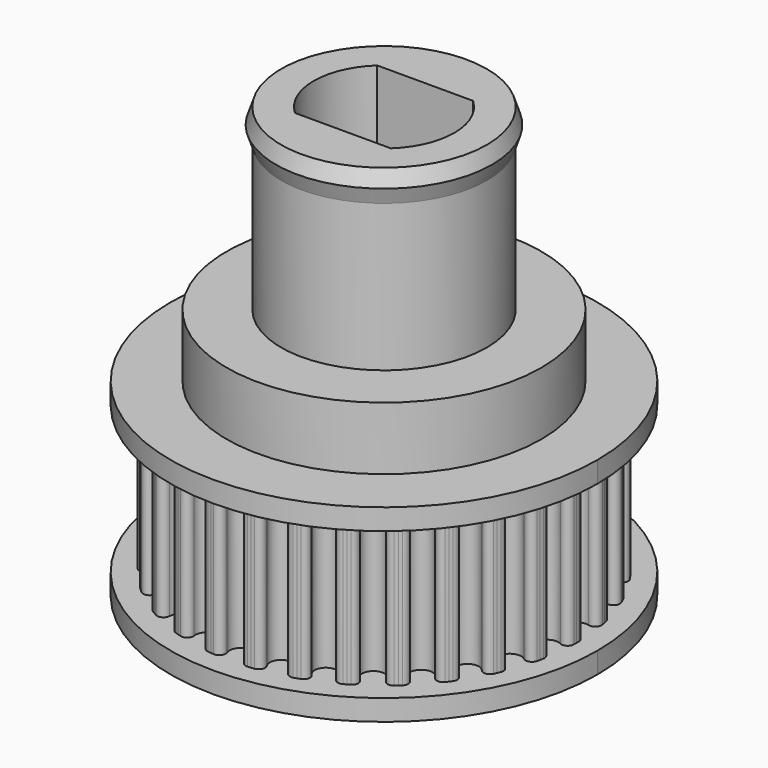
from build123d import *

# Parameters (mm, degrees)
F3_R     = 7.5
F3_R_2   = 4.9
F4_DEPTH = 8
F5_DEPTH = 1
F7_DEPTH = 12
F8_DEPTH = 20.5


with BuildPart() as f4:
    # F3 (on Top) → F4 (new body)
    with BuildSketch(Plane.XY):
        with BuildLine():
            ThreePointArc((0.4984215704, 8.7257426748), (0.4409178958, 8.2306612387), (0, 7.9982742552))
            ThreePointArc((0, 7.9982742552), (-0.4409178958, 8.2306612387), (-0.4984215704, 8.7257426748))
            ThreePointArc((-0.4984215704, 8.7257426748), (-0.5383834455, 9.0143337699), (-0.8045070227, 9.132908697))
            ThreePointArc((-0.8045070227, 9.132908697), (-0.8814576325, 9.1258032666), (-0.9583456187, 9.1180494895))
            ThreePointArc((-0.9583456187, 9.1180494895), (-1.0351655189, 9.1096479167), (-1.1119118753, 9.1005991451))
            ThreePointArc((-1.1119118753, 9.1005991451), (-1.3475669002, 8.9292851617), (-1.3266540499, 8.6386919334))
            ThreePointArc((-1.3266540499, 8.6386919334), (-1.662934724, 7.8234927727), (-2.3017137764, 8.4314365905))
            ThreePointArc((-2.3017137764, 8.4314365905), (-2.4008038512, 8.7054127368), (-2.6857651033, 8.7660663144))
            ThreePointArc((-2.6857651033, 8.7660663144), (-2.7595568556, 8.7431172232), (-2.8331525539, 8.7195469735))
            ThreePointArc((-2.8331525539, 8.7195469735), (-2.9065469698, 8.6953572399), (-2.9797348888, 8.670549741))
            ThreePointArc((-2.9797348888, 8.670549741), (-3.174622106, 8.4539839445), (-3.0937485222, 8.1740889015))
            ThreePointArc((-3.0937485222, 8.1740889015), (-3.2531912209, 7.3067871148), (-4.0044100455, 7.7686362687))
            ThreePointArc((-4.0044100455, 7.7686362687), (-4.1582976082, 8.0160233939), (-4.4496423611, 8.0161047695))
            ThreePointArc((-4.4496423611, 8.0161047695), (-4.5170502022, 7.9783150031), (-4.5841371276, 7.9399584138))
            ThreePointArc((-4.5841371276, 7.9399584138), (-4.6508983709, 7.9010377268), (-4.7173291892, 7.8615557073))
            ThreePointArc((-4.7173291892, 7.8615557073), (-4.8629310923, 7.6092030622), (-4.7256313387, 7.352238961))
            ThreePointArc((-4.7256313387, 7.352238961), (-4.701267651, 6.4707397981), (-5.5320943804, 6.7663092639))
            ThreePointArc((-5.5320943804, 6.7663092639), (-5.7340538061, 6.9762953635), (-6.0190488961, 6.9158009807))
            ThreePointArc((-6.0190488961, 6.9158009807), (-6.0771267799, 6.8648221331), (-6.1347729116, 6.8133555713))
            ThreePointArc((-6.1347729116, 6.8133555713), (-6.1919831958, 6.7614049517), (-6.2487535679, 6.7089739652))
            ThreePointArc((-6.2487535679, 6.7089739652), (-6.3387066549, 6.431863493), (-6.1509813896, 6.2090608979))
            ThreePointArc((-6.1509813896, 6.2090608979), (-5.9438761255, 5.3518901022), (-6.8179996448, 5.4682620759))
            ThreePointArc((-6.8179996448, 5.4682620759), (-7.0592043376, 5.6316697497), (-7.3253941116, 5.5132435033))
            ThreePointArc((-7.3253941116, 5.5132435033), (-7.371603756, 5.4513035948), (-7.4172896815, 5.3889763962))
            ThreePointArc((-7.4172896815, 5.3889763962), (-7.4624486426, 5.3262663353), (-7.5070774307, 5.2631778677))
            ThreePointArc((-7.5070774307, 5.2631778677), (-7.5374503202, 4.9734206257), (-7.307504038, 4.7945170792))
            ThreePointArc((-7.307504038, 4.7945170792), (-6.9267086914, 3.9991371276), (-7.8059256084, 3.9312255956))
            ThreePointArc((-7.8059256084, 3.9312255956), (-8.0758337657, 4.0409131442), (-8.3115844534, 3.8697308294))
            ThreePointArc((-8.3115844534, 3.8697308294), (-8.343906275, 3.7995369312), (-8.3756353002, 3.7290730933))
            ThreePointArc((-8.3756353002, 3.7290730933), (-8.4067692748, 3.6583443219), (-8.4373059869, 3.5873556418))
            ThreePointArc((-8.4373059869, 3.5873556418), (-8.4067712378, 3.297615412), (-8.1446536947, 3.1704298575))
            ThreePointArc((-8.1446536947, 3.1704298575), (-7.6068108495, 2.4716026705), (-8.452695166, 2.2223756926))
            ThreePointArc((-8.452695166, 2.2223756926), (-8.7395105061, 2.2735492438), (-8.9345186711, 2.0570923492))
            ThreePointArc((-8.9345186711, 2.0570923492), (-8.9515400513, 1.9817122715), (-8.9679254656, 1.9061914023))
            ThreePointArc((-8.9679254656, 1.9061914023), (-8.9836737497, 1.8305351068), (-8.9987837848, 1.7547487603))
            ThreePointArc((-8.9987837848, 1.7547487603), (-8.9086759121, 1.477688581), (-8.6258429026, 1.4077796376))
            ThreePointArc((-8.6258429026, 1.4077796376), (-7.9544588719, 0.8360473167), (-8.7300413842, 0.4163973077))
            ThreePointArc((-8.7300413842, 0.4163973077), (-9.0212287006, 0.4068203317), (-9.1669715504, 0.1545490623))
            ThreePointArc((-9.1669715504, 0.1545490623), (-9.1679485732, 0.0772772762), (-9.1682742552, 0))
            ThreePointArc((-9.1682742552, 0), (-9.1679485732, -0.0772772762), (-9.1669715504, -0.1545490623))
            ThreePointArc((-9.1669715504, -0.1545490623), (-9.0212287006, -0.4068203317), (-8.7300413842, -0.4163973077))
            ThreePointArc((-8.7300413842, -0.4163973077), (-7.9544588719, -0.8360473167), (-8.6258429026, -1.4077796376))
            ThreePointArc((-8.6258429026, -1.4077796376), (-8.9086759121, -1.477688581), (-8.9987837848, -1.7547487603))
            ThreePointArc((-8.9987837848, -1.7547487603), (-8.9836737497, -1.8305351068), (-8.9679254656, -1.9061914023))
            ThreePointArc((-8.9679254656, -1.9061914023), (-8.9515400513, -1.9817122715), (-8.9345186711, -2.0570923492))
            ThreePointArc((-8.9345186711, -2.0570923492), (-8.7395105061, -2.2735492438), (-8.452695166, -2.2223756926))
            ThreePointArc((-8.452695166, -2.2223756926), (-7.6068108495, -2.4716026705), (-8.1446536947, -3.1704298575))
            ThreePointArc((-8.1446536947, -3.1704298575), (-8.4067712378, -3.297615412), (-8.4373059869, -3.5873556418))
            ThreePointArc((-8.4373059869, -3.5873556418), (-8.4067692748, -3.6583443219), (-8.3756353002, -3.7290730933))
            ThreePointArc((-8.3756353002, -3.7290730933), (-8.343906275, -3.7995369312), (-8.3115844534, -3.8697308294))
            ThreePointArc((-8.3115844534, -3.8697308294), (-8.0758337657, -4.0409131442), (-7.8059256084, -3.9312255956))
            ThreePointArc((-7.8059256084, -3.9312255956), (-6.9267086914, -3.9991371276), (-7.307504038, -4.7945170792))
            ThreePointArc((-7.307504038, -4.7945170792), (-7.5374503202, -4.9734206257), (-7.5070774307, -5.2631778677))
            ThreePointArc((-7.5070774307, -5.2631778677), (-7.4624486426, -5.3262663353), (-7.4172896815, -5.3889763962))
            ThreePointArc((-7.4172896815, -5.3889763962), (-7.371603756, -5.4513035948), (-7.3253941116, -5.5132435033))
            ThreePointArc((-7.3253941116, -5.5132435033), (-7.0592043376, -5.6316697497), (-6.8179996448, -5.4682620759))
            ThreePointArc((-6.8179996448, -5.4682620759), (-5.9438761255, -5.3518901022), (-6.1509813896, -6.2090608979))
            ThreePointArc((-6.1509813896, -6.2090608979), (-6.3387066549, -6.431863493), (-6.2487535679, -6.7089739652))
            ThreePointArc((-6.2487535679, -6.7089739652), (-6.1919831958, -6.7614049517), (-6.1347729116, -6.8133555713))
            ThreePointArc((-6.1347729116, -6.8133555713), (-6.0771267799, -6.8648221331), (-6.0190488961, -6.9158009807))
            ThreePointArc((-6.0190488961, -6.9158009807), (-5.7340538061, -6.9762953635), (-5.5320943804, -6.7663092639))
            ThreePointArc((-5.5320943804, -6.7663092639), (-4.701267651, -6.4707397981), (-4.7256313387, -7.352238961))
            ThreePointArc((-4.7256313387, -7.352238961), (-4.8629310923, -7.6092030622), (-4.7173291892, -7.8615557073))
            ThreePointArc((-4.7173291892, -7.8615557073), (-4.6508983709, -7.9010377268), (-4.5841371276, -7.9399584138))
            ThreePointArc((-4.5841371276, -7.9399584138), (-4.5170502022, -7.9783150031), (-4.4496423611, -8.0161047695))
            ThreePointArc((-4.4496423611, -8.0161047695), (-4.1582976082, -8.0160233939), (-4.0044100455, -7.7686362687))
            ThreePointArc((-4.0044100455, -7.7686362687), (-3.2531912209, -7.3067871148), (-3.0937485222, -8.1740889015))
            ThreePointArc((-3.0937485222, -8.1740889015), (-3.174622106, -8.4539839445), (-2.9797348888, -8.670549741))
            ThreePointArc((-2.9797348888, -8.670549741), (-2.9065469698, -8.6953572399), (-2.8331525539, -8.7195469735))
            ThreePointArc((-2.8331525539, -8.7195469735), (-2.7595568556, -8.7431172232), (-2.6857651033, -8.7660663144))
            ThreePointArc((-2.6857651033, -8.7660663144), (-2.4008038512, -8.7054127368), (-2.3017137764, -8.4314365905))
            ThreePointArc((-2.3017137764, -8.4314365905), (-1.662934724, -7.8234927727), (-1.3266540499, -8.6386919334))
            ThreePointArc((-1.3266540499, -8.6386919334), (-1.3475669002, -8.9292851617), (-1.1119118753, -9.1005991451))
            ThreePointArc((-1.1119118753, -9.1005991451), (-1.0351655189, -9.1096479167), (-0.9583456187, -9.1180494895))
            ThreePointArc((-0.9583456187, -9.1180494895), (-0.8814576325, -9.1258032666), (-0.8045070227, -9.132908697))
            ThreePointArc((-0.8045070227, -9.132908697), (-0.5383834455, -9.0143337699), (-0.4984215704, -8.7257426748))
            ThreePointArc((-0.4984215704, -8.7257426748), (0, -7.9982742552), (0.4984215704, -8.7257426748))
            ThreePointArc((0.4984215704, -8.7257426748), (0.5383834455, -9.0143337699), (0.8045070227, -9.132908697))
            ThreePointArc((0.8045070227, -9.132908697), (0.8814576325, -9.1258032666), (0.9583456187, -9.1180494895))
            ThreePointArc((0.9583456187, -9.1180494895), (1.0351655189, -9.1096479167), (1.1119118753, -9.1005991451))
            ThreePointArc((1.1119118753, -9.1005991451), (1.3475669002, -8.9292851617), (1.3266540499, -8.6386919334))
            ThreePointArc((1.3266540499, -8.6386919334), (1.662934724, -7.8234927727), (2.3017137764, -8.4314365905))
            ThreePointArc((2.3017137764, -8.4314365905), (2.4008038512, -8.7054127368), (2.6857651033, -8.7660663144))
            ThreePointArc((2.6857651033, -8.7660663144), (2.7595568556, -8.7431172232), (2.8331525539, -8.7195469735))
            ThreePointArc((2.8331525539, -8.7195469735), (2.9065469698, -8.6953572399), (2.9797348888, -8.670549741))
            ThreePointArc((2.9797348888, -8.670549741), (3.174622106, -8.4539839445), (3.0937485222, -8.1740889015))
            ThreePointArc((3.0937485222, -8.1740889015), (3.2531912209, -7.3067871148), (4.0044100455, -7.7686362687))
            ThreePointArc((4.0044100455, -7.7686362687), (4.1582976082, -8.0160233939), (4.4496423611, -8.0161047695))
            ThreePointArc((4.4496423611, -8.0161047695), (4.5170502022, -7.9783150031), (4.5841371276, -7.9399584138))
            ThreePointArc((4.5841371276, -7.9399584138), (4.6508983709, -7.9010377268), (4.7173291892, -7.8615557073))
            ThreePointArc((4.7173291892, -7.8615557073), (4.8629310923, -7.6092030622), (4.7256313387, -7.352238961))
            ThreePointArc((4.7256313387, -7.352238961), (4.701267651, -6.4707397981), (5.5320943804, -6.7663092639))
            ThreePointArc((5.5320943804, -6.7663092639), (5.7340538061, -6.9762953635), (6.0190488961, -6.9158009807))
            ThreePointArc((6.0190488961, -6.9158009807), (6.0771267799, -6.8648221331), (6.1347729116, -6.8133555713))
            ThreePointArc((6.1347729116, -6.8133555713), (6.1919831958, -6.7614049517), (6.2487535679, -6.7089739652))
            ThreePointArc((6.2487535679, -6.7089739652), (6.3387066549, -6.431863493), (6.1509813896, -6.2090608979))
            ThreePointArc((6.1509813896, -6.2090608979), (5.9438761255, -5.3518901022), (6.8179996448, -5.4682620759))
            ThreePointArc((6.8179996448, -5.4682620759), (7.0592043376, -5.6316697497), (7.3253941116, -5.5132435033))
            ThreePointArc((7.3253941116, -5.5132435033), (7.371603756, -5.4513035948), (7.4172896815, -5.3889763962))
            ThreePointArc((7.4172896815, -5.3889763962), (7.4624486426, -5.3262663353), (7.5070774307, -5.2631778677))
            ThreePointArc((7.5070774307, -5.2631778677), (7.5374503202, -4.9734206257), (7.307504038, -4.7945170792))
            ThreePointArc((7.307504038, -4.7945170792), (6.9267086914, -3.9991371276), (7.8059256084, -3.9312255956))
            ThreePointArc((7.8059256084, -3.9312255956), (8.0758337657, -4.0409131442), (8.3115844534, -3.8697308294))
            ThreePointArc((8.3115844534, -3.8697308294), (8.343906275, -3.7995369312), (8.3756353002, -3.7290730933))
            ThreePointArc((8.3756353002, -3.7290730933), (8.4067692748, -3.6583443219), (8.4373059869, -3.5873556418))
            ThreePointArc((8.4373059869, -3.5873556418), (8.4067712378, -3.297615412), (8.1446536947, -3.1704298575))
            ThreePointArc((8.1446536947, -3.1704298575), (7.6068108495, -2.4716026705), (8.452695166, -2.2223756926))
            ThreePointArc((8.452695166, -2.2223756926), (8.7395105061, -2.2735492438), (8.9345186711, -2.0570923492))
            ThreePointArc((8.9345186711, -2.0570923492), (8.9515400513, -1.9817122715), (8.9679254656, -1.9061914023))
            ThreePointArc((8.9679254656, -1.9061914023), (8.9836737497, -1.8305351068), (8.9987837848, -1.7547487603))
            ThreePointArc((8.9987837848, -1.7547487603), (8.9086759121, -1.477688581), (8.6258429026, -1.4077796376))
            ThreePointArc((8.6258429026, -1.4077796376), (7.9544588719, -0.8360473167), (8.7300413842, -0.4163973077))
            ThreePointArc((8.7300413842, -0.4163973077), (9.0212287006, -0.4068203317), (9.1669715504, -0.1545490623))
            ThreePointArc((9.1669715504, -0.1545490623), (9.1679485732, -0.0772772762), (9.1682742552, 0))
            ThreePointArc((9.1682742552, 0), (9.1679485732, 0.0772772762), (9.1669715504, 0.1545490623))
            ThreePointArc((9.1669715504, 0.1545490623), (9.0212287006, 0.4068203317), (8.7300413842, 0.4163973077))
            ThreePointArc((8.7300413842, 0.4163973077), (7.9544588719, 0.8360473167), (8.6258429026, 1.4077796376))
            ThreePointArc((8.6258429026, 1.4077796376), (8.9086759121, 1.477688581), (8.9987837848, 1.7547487603))
            ThreePointArc((8.9987837848, 1.7547487603), (8.9836737497, 1.8305351068), (8.9679254656, 1.9061914023))
            ThreePointArc((8.9679254656, 1.9061914023), (8.9515400513, 1.9817122715), (8.9345186711, 2.0570923492))
            ThreePointArc((8.9345186711, 2.0570923492), (8.7395105061, 2.2735492438), (8.452695166, 2.2223756926))
            ThreePointArc((8.452695166, 2.2223756926), (7.6068108495, 2.4716026705), (8.1446536947, 3.1704298575))
            ThreePointArc((8.1446536947, 3.1704298575), (8.4067712378, 3.297615412), (8.4373059869, 3.5873556418))
            ThreePointArc((8.4373059869, 3.5873556418), (8.4067692748, 3.6583443219), (8.3756353002, 3.7290730933))
            ThreePointArc((8.3756353002, 3.7290730933), (8.343906275, 3.7995369312), (8.3115844534, 3.8697308294))
            ThreePointArc((8.3115844534, 3.8697308294), (8.0758337657, 4.0409131442), (7.8059256084, 3.9312255956))
            ThreePointArc((7.8059256084, 3.9312255956), (6.9267086914, 3.9991371276), (7.307504038, 4.7945170792))
            ThreePointArc((7.307504038, 4.7945170792), (7.5374503202, 4.9734206257), (7.5070774307, 5.2631778677))
            ThreePointArc((7.5070774307, 5.2631778677), (7.4624486426, 5.3262663353), (7.4172896815, 5.3889763962))
            ThreePointArc((7.4172896815, 5.3889763962), (7.371603756, 5.4513035948), (7.3253941116, 5.5132435033))
            ThreePointArc((7.3253941116, 5.5132435033), (7.0592043376, 5.6316697497), (6.8179996448, 5.4682620759))
            ThreePointArc((6.8179996448, 5.4682620759), (5.9438761255, 5.3518901022), (6.1509813896, 6.2090608979))
            ThreePointArc((6.1509813896, 6.2090608979), (6.3387066549, 6.431863493), (6.2487535679, 6.7089739652))
            ThreePointArc((6.2487535679, 6.7089739652), (6.1919831958, 6.7614049517), (6.1347729116, 6.8133555713))
            ThreePointArc((6.1347729116, 6.8133555713), (6.0771267799, 6.8648221331), (6.0190488961, 6.9158009807))
            ThreePointArc((6.0190488961, 6.9158009807), (5.7340538061, 6.9762953635), (5.5320943804, 6.7663092639))
            ThreePointArc((5.5320943804, 6.7663092639), (4.701267651, 6.4707397981), (4.7256313387, 7.352238961))
            ThreePointArc((4.7256313387, 7.352238961), (4.8629310923, 7.6092030622), (4.7173291892, 7.8615557073))
            ThreePointArc((4.7173291892, 7.8615557073), (4.6508983709, 7.9010377268), (4.5841371276, 7.9399584138))
            ThreePointArc((4.5841371276, 7.9399584138), (4.5170502022, 7.9783150031), (4.4496423611, 8.0161047695))
            ThreePointArc((4.4496423611, 8.0161047695), (4.1582976082, 8.0160233939), (4.0044100455, 7.7686362687))
            ThreePointArc((4.0044100455, 7.7686362687), (3.2531912209, 7.3067871148), (3.0937485222, 8.1740889015))
            ThreePointArc((3.0937485222, 8.1740889015), (3.174622106, 8.4539839445), (2.9797348888, 8.670549741))
            ThreePointArc((2.9797348888, 8.670549741), (2.9065469698, 8.6953572399), (2.8331525539, 8.7195469735))
            ThreePointArc((2.8331525539, 8.7195469735), (2.7595568556, 8.7431172232), (2.6857651033, 8.7660663144))
            ThreePointArc((2.6857651033, 8.7660663144), (2.4008038512, 8.7054127368), (2.3017137764, 8.4314365905))
            ThreePointArc((2.3017137764, 8.4314365905), (1.662934724, 7.8234927727), (1.3266540499, 8.6386919334))
            ThreePointArc((1.3266540499, 8.6386919334), (1.3475669002, 8.9292851617), (1.1119118753, 9.1005991451))
            ThreePointArc((1.1119118753, 9.1005991451), (1.0351655189, 9.1096479167), (0.9583456187, 9.1180494895))
            ThreePointArc((0.9583456187, 9.1180494895), (0.8814576325, 9.1258032666), (0.8045070227, 9.132908697))
            ThreePointArc((0.8045070227, 9.132908697), (0.5383834455, 9.0143337699), (0.4984215704, 8.7257426748))
        make_face()
        Circle(F3_R, mode=Mode.SUBTRACT)
        Circle(F3_R)
        Circle(F3_R_2, mode=Mode.SUBTRACT)
        Circle(F3_R_2)
        with BuildLine():
            ThreePointArc((-2.2847319318, -2.45), (-3.35, 0), (-2.2847319318, 2.45))
            Line((-2.2847319318, 2.45), (2.2847319318, 2.45))
            ThreePointArc((2.2847319318, 2.45), (3.35, 0), (2.2847319318, -2.45))
            Line((2.2847319318, -2.45), (-2.2847319318, -2.45))
        make_face(mode=Mode.SUBTRACT)
    extrude(amount=F4_DEPTH)



with BuildPart() as f5:
    # F3 (on Top) → F5 (new body)
    with BuildSketch(Plane.XY):
        with BuildLine():
            ThreePointArc((0, 10.1682742552), (-7.1900556788, -7.1900556788), (10.1682742552, 0))
            ThreePointArc((10.1682742552, 0), (7.1900556788, 7.1900556788), (0, 10.1682742552))
        make_face()
        with BuildLine():
            ThreePointArc((-0.4984215704, 8.7257426748), (-0.4409178958, 8.2306612387), (0, 7.9982742552))
            ThreePointArc((0, 7.9982742552), (0.4409178958, 8.2306612387), (0.4984215704, 8.7257426748))
            ThreePointArc((0.4984215704, 8.7257426748), (0.5383834455, 9.0143337699), (0.8045070227, 9.132908697))
            ThreePointArc((0.8045070227, 9.132908697), (0.8814576325, 9.1258032666), (0.9583456187, 9.1180494895))
            ThreePointArc((0.9583456187, 9.1180494895), (1.0351655189, 9.1096479167), (1.1119118753, 9.1005991451))
            ThreePointArc((1.1119118753, 9.1005991451), (1.3475669002, 8.9292851617), (1.3266540499, 8.6386919334))
            ThreePointArc((1.3266540499, 8.6386919334), (1.662934724, 7.8234927727), (2.3017137764, 8.4314365905))
            ThreePointArc((2.3017137764, 8.4314365905), (2.4008038512, 8.7054127368), (2.6857651033, 8.7660663144))
            ThreePointArc((2.6857651033, 8.7660663144), (2.7595568556, 8.7431172232), (2.8331525539, 8.7195469735))
            ThreePointArc((2.8331525539, 8.7195469735), (2.9065469698, 8.6953572399), (2.9797348888, 8.670549741))
            ThreePointArc((2.9797348888, 8.670549741), (3.174622106, 8.4539839445), (3.0937485222, 8.1740889015))
            ThreePointArc((3.0937485222, 8.1740889015), (3.2531912209, 7.3067871148), (4.0044100455, 7.7686362687))
            ThreePointArc((4.0044100455, 7.7686362687), (4.1582976082, 8.0160233939), (4.4496423611, 8.0161047695))
            ThreePointArc((4.4496423611, 8.0161047695), (4.5170502022, 7.9783150031), (4.5841371276, 7.9399584138))
            ThreePointArc((4.5841371276, 7.9399584138), (4.6508983709, 7.9010377268), (4.7173291892, 7.8615557073))
            ThreePointArc((4.7173291892, 7.8615557073), (4.8629310923, 7.6092030622), (4.7256313387, 7.352238961))
            ThreePointArc((4.7256313387, 7.352238961), (4.701267651, 6.4707397981), (5.5320943804, 6.7663092639))
            ThreePointArc((5.5320943804, 6.7663092639), (5.7340538061, 6.9762953635), (6.0190488961, 6.9158009807))
            ThreePointArc((6.0190488961, 6.9158009807), (6.0771267799, 6.8648221331), (6.1347729116, 6.8133555713))
            ThreePointArc((6.1347729116, 6.8133555713), (6.1919831958, 6.7614049517), (6.2487535679, 6.7089739652))
            ThreePointArc((6.2487535679, 6.7089739652), (6.3387066549, 6.431863493), (6.1509813896, 6.2090608979))
            ThreePointArc((6.1509813896, 6.2090608979), (5.9438761255, 5.3518901022), (6.8179996448, 5.4682620759))
            ThreePointArc((6.8179996448, 5.4682620759), (7.0592043376, 5.6316697497), (7.3253941116, 5.5132435033))
            ThreePointArc((7.3253941116, 5.5132435033), (7.371603756, 5.4513035948), (7.4172896815, 5.3889763962))
            ThreePointArc((7.4172896815, 5.3889763962), (7.4624486426, 5.3262663353), (7.5070774307, 5.2631778677))
            ThreePointArc((7.5070774307, 5.2631778677), (7.5374503202, 4.9734206257), (7.307504038, 4.7945170792))
            ThreePointArc((7.307504038, 4.7945170792), (6.9267086914, 3.9991371276), (7.8059256084, 3.9312255956))
            ThreePointArc((7.8059256084, 3.9312255956), (8.0758337657, 4.0409131442), (8.3115844534, 3.8697308294))
            ThreePointArc((8.3115844534, 3.8697308294), (8.343906275, 3.7995369312), (8.3756353002, 3.7290730933))
            ThreePointArc((8.3756353002, 3.7290730933), (8.4067692748, 3.6583443219), (8.4373059869, 3.5873556418))
            ThreePointArc((8.4373059869, 3.5873556418), (8.4067712378, 3.297615412), (8.1446536947, 3.1704298575))
            ThreePointArc((8.1446536947, 3.1704298575), (7.6068108495, 2.4716026705), (8.452695166, 2.2223756926))
            ThreePointArc((8.452695166, 2.2223756926), (8.7395105061, 2.2735492438), (8.9345186711, 2.0570923492))
            ThreePointArc((8.9345186711, 2.0570923492), (8.9515400513, 1.9817122715), (8.9679254656, 1.9061914023))
            ThreePointArc((8.9679254656, 1.9061914023), (8.9836737497, 1.8305351068), (8.9987837848, 1.7547487603))
            ThreePointArc((8.9987837848, 1.7547487603), (8.9086759121, 1.477688581), (8.6258429026, 1.4077796376))
            ThreePointArc((8.6258429026, 1.4077796376), (7.9544588719, 0.8360473167), (8.7300413842, 0.4163973077))
            ThreePointArc((8.7300413842, 0.4163973077), (9.0212287006, 0.4068203317), (9.1669715504, 0.1545490623))
            ThreePointArc((9.1669715504, 0.1545490623), (9.1679485732, 0.0772772762), (9.1682742552, 0))
            ThreePointArc((9.1682742552, 0), (9.1679485732, -0.0772772762), (9.1669715504, -0.1545490623))
            ThreePointArc((9.1669715504, -0.1545490623), (9.0212287006, -0.4068203317), (8.7300413842, -0.4163973077))
            ThreePointArc((8.7300413842, -0.4163973077), (7.9544588719, -0.8360473167), (8.6258429026, -1.4077796376))
            ThreePointArc((8.6258429026, -1.4077796376), (8.9086759121, -1.477688581), (8.9987837848, -1.7547487603))
            ThreePointArc((8.9987837848, -1.7547487603), (8.9836737497, -1.8305351068), (8.9679254656, -1.9061914023))
            ThreePointArc((8.9679254656, -1.9061914023), (8.9515400513, -1.9817122715), (8.9345186711, -2.0570923492))
            ThreePointArc((8.9345186711, -2.0570923492), (8.7395105061, -2.2735492438), (8.452695166, -2.2223756926))
            ThreePointArc((8.452695166, -2.2223756926), (7.6068108495, -2.4716026705), (8.1446536947, -3.1704298575))
            ThreePointArc((8.1446536947, -3.1704298575), (8.4067712378, -3.297615412), (8.4373059869, -3.5873556418))
            ThreePointArc((8.4373059869, -3.5873556418), (8.4067692748, -3.6583443219), (8.3756353002, -3.7290730933))
            ThreePointArc((8.3756353002, -3.7290730933), (8.343906275, -3.7995369312), (8.3115844534, -3.8697308294))
            ThreePointArc((8.3115844534, -3.8697308294), (8.0758337657, -4.0409131442), (7.8059256084, -3.9312255956))
            ThreePointArc((7.8059256084, -3.9312255956), (6.9267086914, -3.9991371276), (7.307504038, -4.7945170792))
            ThreePointArc((7.307504038, -4.7945170792), (7.5374503202, -4.9734206257), (7.5070774307, -5.2631778677))
            ThreePointArc((7.5070774307, -5.2631778677), (7.4624486426, -5.3262663353), (7.4172896815, -5.3889763962))
            ThreePointArc((7.4172896815, -5.3889763962), (7.371603756, -5.4513035948), (7.3253941116, -5.5132435033))
            ThreePointArc((7.3253941116, -5.5132435033), (7.0592043376, -5.6316697497), (6.8179996448, -5.4682620759))
            ThreePointArc((6.8179996448, -5.4682620759), (5.9438761255, -5.3518901022), (6.1509813896, -6.2090608979))
            ThreePointArc((6.1509813896, -6.2090608979), (6.3387066549, -6.431863493), (6.2487535679, -6.7089739652))
            ThreePointArc((6.2487535679, -6.7089739652), (6.1919831958, -6.7614049517), (6.1347729116, -6.8133555713))
            ThreePointArc((6.1347729116, -6.8133555713), (6.0771267799, -6.8648221331), (6.0190488961, -6.9158009807))
            ThreePointArc((6.0190488961, -6.9158009807), (5.7340538061, -6.9762953635), (5.5320943804, -6.7663092639))
            ThreePointArc((5.5320943804, -6.7663092639), (4.701267651, -6.4707397981), (4.7256313387, -7.352238961))
            ThreePointArc((4.7256313387, -7.352238961), (4.8629310923, -7.6092030622), (4.7173291892, -7.8615557073))
            ThreePointArc((4.7173291892, -7.8615557073), (4.6508983709, -7.9010377268), (4.5841371276, -7.9399584138))
            ThreePointArc((4.5841371276, -7.9399584138), (4.5170502022, -7.9783150031), (4.4496423611, -8.0161047695))
            ThreePointArc((4.4496423611, -8.0161047695), (4.1582976082, -8.0160233939), (4.0044100455, -7.7686362687))
            ThreePointArc((4.0044100455, -7.7686362687), (3.2531912209, -7.3067871148), (3.0937485222, -8.1740889015))
            ThreePointArc((3.0937485222, -8.1740889015), (3.174622106, -8.4539839445), (2.9797348888, -8.670549741))
            ThreePointArc((2.9797348888, -8.670549741), (2.9065469698, -8.6953572399), (2.8331525539, -8.7195469735))
            ThreePointArc((2.8331525539, -8.7195469735), (2.7595568556, -8.7431172232), (2.6857651033, -8.7660663144))
            ThreePointArc((2.6857651033, -8.7660663144), (2.4008038512, -8.7054127368), (2.3017137764, -8.4314365905))
            ThreePointArc((2.3017137764, -8.4314365905), (1.662934724, -7.8234927727), (1.3266540499, -8.6386919334))
            ThreePointArc((1.3266540499, -8.6386919334), (1.3475669002, -8.9292851617), (1.1119118753, -9.1005991451))
            ThreePointArc((1.1119118753, -9.1005991451), (1.0351655189, -9.1096479167), (0.9583456187, -9.1180494895))
            ThreePointArc((0.9583456187, -9.1180494895), (0.8814576325, -9.1258032666), (0.8045070227, -9.132908697))
            ThreePointArc((0.8045070227, -9.132908697), (0.5383834455, -9.0143337699), (0.4984215704, -8.7257426748))
            ThreePointArc((0.4984215704, -8.7257426748), (0, -7.9982742552), (-0.4984215704, -8.7257426748))
            ThreePointArc((-0.4984215704, -8.7257426748), (-0.5383834455, -9.0143337699), (-0.8045070227, -9.132908697))
            ThreePointArc((-0.8045070227, -9.132908697), (-0.8814576325, -9.1258032666), (-0.9583456187, -9.1180494895))
            ThreePointArc((-0.9583456187, -9.1180494895), (-1.0351655189, -9.1096479167), (-1.1119118753, -9.1005991451))
            ThreePointArc((-1.1119118753, -9.1005991451), (-1.3475669002, -8.9292851617), (-1.3266540499, -8.6386919334))
            ThreePointArc((-1.3266540499, -8.6386919334), (-1.662934724, -7.8234927727), (-2.3017137764, -8.4314365905))
            ThreePointArc((-2.3017137764, -8.4314365905), (-2.4008038512, -8.7054127368), (-2.6857651033, -8.7660663144))
            ThreePointArc((-2.6857651033, -8.7660663144), (-2.7595568556, -8.7431172232), (-2.8331525539, -8.7195469735))
            ThreePointArc((-2.8331525539, -8.7195469735), (-2.9065469698, -8.6953572399), (-2.9797348888, -8.670549741))
            ThreePointArc((-2.9797348888, -8.670549741), (-3.174622106, -8.4539839445), (-3.0937485222, -8.1740889015))
            ThreePointArc((-3.0937485222, -8.1740889015), (-3.2531912209, -7.3067871148), (-4.0044100455, -7.7686362687))
            ThreePointArc((-4.0044100455, -7.7686362687), (-4.1582976082, -8.0160233939), (-4.4496423611, -8.0161047695))
            ThreePointArc((-4.4496423611, -8.0161047695), (-4.5170502022, -7.9783150031), (-4.5841371276, -7.9399584138))
            ThreePointArc((-4.5841371276, -7.9399584138), (-4.6508983709, -7.9010377268), (-4.7173291892, -7.8615557073))
            ThreePointArc((-4.7173291892, -7.8615557073), (-4.8629310923, -7.6092030622), (-4.7256313387, -7.352238961))
            ThreePointArc((-4.7256313387, -7.352238961), (-4.701267651, -6.4707397981), (-5.5320943804, -6.7663092639))
            ThreePointArc((-5.5320943804, -6.7663092639), (-5.7340538061, -6.9762953635), (-6.0190488961, -6.9158009807))
            ThreePointArc((-6.0190488961, -6.9158009807), (-6.0771267799, -6.8648221331), (-6.1347729116, -6.8133555713))
            ThreePointArc((-6.1347729116, -6.8133555713), (-6.1919831958, -6.7614049517), (-6.2487535679, -6.7089739652))
            ThreePointArc((-6.2487535679, -6.7089739652), (-6.3387066549, -6.431863493), (-6.1509813896, -6.2090608979))
            ThreePointArc((-6.1509813896, -6.2090608979), (-5.9438761255, -5.3518901022), (-6.8179996448, -5.4682620759))
            ThreePointArc((-6.8179996448, -5.4682620759), (-7.0592043376, -5.6316697497), (-7.3253941116, -5.5132435033))
            ThreePointArc((-7.3253941116, -5.5132435033), (-7.371603756, -5.4513035948), (-7.4172896815, -5.3889763962))
            ThreePointArc((-7.4172896815, -5.3889763962), (-7.4624486426, -5.3262663353), (-7.5070774307, -5.2631778677))
            ThreePointArc((-7.5070774307, -5.2631778677), (-7.5374503202, -4.9734206257), (-7.307504038, -4.7945170792))
            ThreePointArc((-7.307504038, -4.7945170792), (-6.9267086914, -3.9991371276), (-7.8059256084, -3.9312255956))
            ThreePointArc((-7.8059256084, -3.9312255956), (-8.0758337657, -4.0409131442), (-8.3115844534, -3.8697308294))
            ThreePointArc((-8.3115844534, -3.8697308294), (-8.343906275, -3.7995369312), (-8.3756353002, -3.7290730933))
            ThreePointArc((-8.3756353002, -3.7290730933), (-8.4067692748, -3.6583443219), (-8.4373059869, -3.5873556418))
            ThreePointArc((-8.4373059869, -3.5873556418), (-8.4067712378, -3.297615412), (-8.1446536947, -3.1704298575))
            ThreePointArc((-8.1446536947, -3.1704298575), (-7.6068108495, -2.4716026705), (-8.452695166, -2.2223756926))
            ThreePointArc((-8.452695166, -2.2223756926), (-8.7395105061, -2.2735492438), (-8.9345186711, -2.0570923492))
            ThreePointArc((-8.9345186711, -2.0570923492), (-8.9515400513, -1.9817122715), (-8.9679254656, -1.9061914023))
            ThreePointArc((-8.9679254656, -1.9061914023), (-8.9836737497, -1.8305351068), (-8.9987837848, -1.7547487603))
            ThreePointArc((-8.9987837848, -1.7547487603), (-8.9086759121, -1.477688581), (-8.6258429026, -1.4077796376))
            ThreePointArc((-8.6258429026, -1.4077796376), (-7.9544588719, -0.8360473167), (-8.7300413842, -0.4163973077))
            ThreePointArc((-8.7300413842, -0.4163973077), (-9.0212287006, -0.4068203317), (-9.1669715504, -0.1545490623))
            ThreePointArc((-9.1669715504, -0.1545490623), (-9.1679485732, -0.0772772762), (-9.1682742552, 0))
            ThreePointArc((-9.1682742552, 0), (-9.1679485732, 0.0772772762), (-9.1669715504, 0.1545490623))
            ThreePointArc((-9.1669715504, 0.1545490623), (-9.0212287006, 0.4068203317), (-8.7300413842, 0.4163973077))
            ThreePointArc((-8.7300413842, 0.4163973077), (-7.9544588719, 0.8360473167), (-8.6258429026, 1.4077796376))
            ThreePointArc((-8.6258429026, 1.4077796376), (-8.9086759121, 1.477688581), (-8.9987837848, 1.7547487603))
            ThreePointArc((-8.9987837848, 1.7547487603), (-8.9836737497, 1.8305351068), (-8.9679254656, 1.9061914023))
            ThreePointArc((-8.9679254656, 1.9061914023), (-8.9515400513, 1.9817122715), (-8.9345186711, 2.0570923492))
            ThreePointArc((-8.9345186711, 2.0570923492), (-8.7395105061, 2.2735492438), (-8.452695166, 2.2223756926))
            ThreePointArc((-8.452695166, 2.2223756926), (-7.6068108495, 2.4716026705), (-8.1446536947, 3.1704298575))
            ThreePointArc((-8.1446536947, 3.1704298575), (-8.4067712378, 3.297615412), (-8.4373059869, 3.5873556418))
            ThreePointArc((-8.4373059869, 3.5873556418), (-8.4067692748, 3.6583443219), (-8.3756353002, 3.7290730933))
            ThreePointArc((-8.3756353002, 3.7290730933), (-8.343906275, 3.7995369312), (-8.3115844534, 3.8697308294))
            ThreePointArc((-8.3115844534, 3.8697308294), (-8.0758337657, 4.0409131442), (-7.8059256084, 3.9312255956))
            ThreePointArc((-7.8059256084, 3.9312255956), (-6.9267086914, 3.9991371276), (-7.307504038, 4.7945170792))
            ThreePointArc((-7.307504038, 4.7945170792), (-7.5374503202, 4.9734206257), (-7.5070774307, 5.2631778677))
            ThreePointArc((-7.5070774307, 5.2631778677), (-7.4624486426, 5.3262663353), (-7.4172896815, 5.3889763962))
            ThreePointArc((-7.4172896815, 5.3889763962), (-7.371603756, 5.4513035948), (-7.3253941116, 5.5132435033))
            ThreePointArc((-7.3253941116, 5.5132435033), (-7.0592043376, 5.6316697497), (-6.8179996448, 5.4682620759))
            ThreePointArc((-6.8179996448, 5.4682620759), (-5.9438761255, 5.3518901022), (-6.1509813896, 6.2090608979))
            ThreePointArc((-6.1509813896, 6.2090608979), (-6.3387066549, 6.431863493), (-6.2487535679, 6.7089739652))
            ThreePointArc((-6.2487535679, 6.7089739652), (-6.1919831958, 6.7614049517), (-6.1347729116, 6.8133555713))
            ThreePointArc((-6.1347729116, 6.8133555713), (-6.0771267799, 6.8648221331), (-6.0190488961, 6.9158009807))
            ThreePointArc((-6.0190488961, 6.9158009807), (-5.7340538061, 6.9762953635), (-5.5320943804, 6.7663092639))
            ThreePointArc((-5.5320943804, 6.7663092639), (-4.701267651, 6.4707397981), (-4.7256313387, 7.352238961))
            ThreePointArc((-4.7256313387, 7.352238961), (-4.8629310923, 7.6092030622), (-4.7173291892, 7.8615557073))
            ThreePointArc((-4.7173291892, 7.8615557073), (-4.6508983709, 7.9010377268), (-4.5841371276, 7.9399584138))
            ThreePointArc((-4.5841371276, 7.9399584138), (-4.5170502022, 7.9783150031), (-4.4496423611, 8.0161047695))
            ThreePointArc((-4.4496423611, 8.0161047695), (-4.1582976082, 8.0160233939), (-4.0044100455, 7.7686362687))
            ThreePointArc((-4.0044100455, 7.7686362687), (-3.2531912209, 7.3067871148), (-3.0937485222, 8.1740889015))
            ThreePointArc((-3.0937485222, 8.1740889015), (-3.174622106, 8.4539839445), (-2.9797348888, 8.670549741))
            ThreePointArc((-2.9797348888, 8.670549741), (-2.9065469698, 8.6953572399), (-2.8331525539, 8.7195469735))
            ThreePointArc((-2.8331525539, 8.7195469735), (-2.7595568556, 8.7431172232), (-2.6857651033, 8.7660663144))
            ThreePointArc((-2.6857651033, 8.7660663144), (-2.4008038512, 8.7054127368), (-2.3017137764, 8.4314365905))
            ThreePointArc((-2.3017137764, 8.4314365905), (-1.662934724, 7.8234927727), (-1.3266540499, 8.6386919334))
            ThreePointArc((-1.3266540499, 8.6386919334), (-1.3475669002, 8.9292851617), (-1.1119118753, 9.1005991451))
            ThreePointArc((-1.1119118753, 9.1005991451), (-1.0351655189, 9.1096479167), (-0.9583456187, 9.1180494895))
            ThreePointArc((-0.9583456187, 9.1180494895), (-0.8814576325, 9.1258032666), (-0.8045070227, 9.132908697))
            ThreePointArc((-0.8045070227, 9.132908697), (-0.5383834455, 9.0143337699), (-0.4984215704, 8.7257426748))
        make_face(mode=Mode.SUBTRACT)
        with BuildLine():
            ThreePointArc((0.4984215704, 8.7257426748), (0.4409178958, 8.2306612387), (0, 7.9982742552))
            ThreePointArc((0, 7.9982742552), (-0.4409178958, 8.2306612387), (-0.4984215704, 8.7257426748))
            ThreePointArc((-0.4984215704, 8.7257426748), (-0.5383834455, 9.0143337699), (-0.8045070227, 9.132908697))
            ThreePointArc((-0.8045070227, 9.132908697), (-0.8814576325, 9.1258032666), (-0.9583456187, 9.1180494895))
            ThreePointArc((-0.9583456187, 9.1180494895), (-1.0351655189, 9.1096479167), (-1.1119118753, 9.1005991451))
            ThreePointArc((-1.1119118753, 9.1005991451), (-1.3475669002, 8.9292851617), (-1.3266540499, 8.6386919334))
            ThreePointArc((-1.3266540499, 8.6386919334), (-1.662934724, 7.8234927727), (-2.3017137764, 8.4314365905))
            ThreePointArc((-2.3017137764, 8.4314365905), (-2.4008038512, 8.7054127368), (-2.6857651033, 8.7660663144))
            ThreePointArc((-2.6857651033, 8.7660663144), (-2.7595568556, 8.7431172232), (-2.8331525539, 8.7195469735))
            ThreePointArc((-2.8331525539, 8.7195469735), (-2.9065469698, 8.6953572399), (-2.9797348888, 8.670549741))
            ThreePointArc((-2.9797348888, 8.670549741), (-3.174622106, 8.4539839445), (-3.0937485222, 8.1740889015))
            ThreePointArc((-3.0937485222, 8.1740889015), (-3.2531912209, 7.3067871148), (-4.0044100455, 7.7686362687))
            ThreePointArc((-4.0044100455, 7.7686362687), (-4.1582976082, 8.0160233939), (-4.4496423611, 8.0161047695))
            ThreePointArc((-4.4496423611, 8.0161047695), (-4.5170502022, 7.9783150031), (-4.5841371276, 7.9399584138))
            ThreePointArc((-4.5841371276, 7.9399584138), (-4.6508983709, 7.9010377268), (-4.7173291892, 7.8615557073))
            ThreePointArc((-4.7173291892, 7.8615557073), (-4.8629310923, 7.6092030622), (-4.7256313387, 7.352238961))
            ThreePointArc((-4.7256313387, 7.352238961), (-4.701267651, 6.4707397981), (-5.5320943804, 6.7663092639))
            ThreePointArc((-5.5320943804, 6.7663092639), (-5.7340538061, 6.9762953635), (-6.0190488961, 6.9158009807))
            ThreePointArc((-6.0190488961, 6.9158009807), (-6.0771267799, 6.8648221331), (-6.1347729116, 6.8133555713))
            ThreePointArc((-6.1347729116, 6.8133555713), (-6.1919831958, 6.7614049517), (-6.2487535679, 6.7089739652))
            ThreePointArc((-6.2487535679, 6.7089739652), (-6.3387066549, 6.431863493), (-6.1509813896, 6.2090608979))
            ThreePointArc((-6.1509813896, 6.2090608979), (-5.9438761255, 5.3518901022), (-6.8179996448, 5.4682620759))
            ThreePointArc((-6.8179996448, 5.4682620759), (-7.0592043376, 5.6316697497), (-7.3253941116, 5.5132435033))
            ThreePointArc((-7.3253941116, 5.5132435033), (-7.371603756, 5.4513035948), (-7.4172896815, 5.3889763962))
            ThreePointArc((-7.4172896815, 5.3889763962), (-7.4624486426, 5.3262663353), (-7.5070774307, 5.2631778677))
            ThreePointArc((-7.5070774307, 5.2631778677), (-7.5374503202, 4.9734206257), (-7.307504038, 4.7945170792))
            ThreePointArc((-7.307504038, 4.7945170792), (-6.9267086914, 3.9991371276), (-7.8059256084, 3.9312255956))
            ThreePointArc((-7.8059256084, 3.9312255956), (-8.0758337657, 4.0409131442), (-8.3115844534, 3.8697308294))
            ThreePointArc((-8.3115844534, 3.8697308294), (-8.343906275, 3.7995369312), (-8.3756353002, 3.7290730933))
            ThreePointArc((-8.3756353002, 3.7290730933), (-8.4067692748, 3.6583443219), (-8.4373059869, 3.5873556418))
            ThreePointArc((-8.4373059869, 3.5873556418), (-8.4067712378, 3.297615412), (-8.1446536947, 3.1704298575))
            ThreePointArc((-8.1446536947, 3.1704298575), (-7.6068108495, 2.4716026705), (-8.452695166, 2.2223756926))
            ThreePointArc((-8.452695166, 2.2223756926), (-8.7395105061, 2.2735492438), (-8.9345186711, 2.0570923492))
            ThreePointArc((-8.9345186711, 2.0570923492), (-8.9515400513, 1.9817122715), (-8.9679254656, 1.9061914023))
            ThreePointArc((-8.9679254656, 1.9061914023), (-8.9836737497, 1.8305351068), (-8.9987837848, 1.7547487603))
            ThreePointArc((-8.9987837848, 1.7547487603), (-8.9086759121, 1.477688581), (-8.6258429026, 1.4077796376))
            ThreePointArc((-8.6258429026, 1.4077796376), (-7.9544588719, 0.8360473167), (-8.7300413842, 0.4163973077))
            ThreePointArc((-8.7300413842, 0.4163973077), (-9.0212287006, 0.4068203317), (-9.1669715504, 0.1545490623))
            ThreePointArc((-9.1669715504, 0.1545490623), (-9.1679485732, 0.0772772762), (-9.1682742552, 0))
            ThreePointArc((-9.1682742552, 0), (-9.1679485732, -0.0772772762), (-9.1669715504, -0.1545490623))
            ThreePointArc((-9.1669715504, -0.1545490623), (-9.0212287006, -0.4068203317), (-8.7300413842, -0.4163973077))
            ThreePointArc((-8.7300413842, -0.4163973077), (-7.9544588719, -0.8360473167), (-8.6258429026, -1.4077796376))
            ThreePointArc((-8.6258429026, -1.4077796376), (-8.9086759121, -1.477688581), (-8.9987837848, -1.7547487603))
            ThreePointArc((-8.9987837848, -1.7547487603), (-8.9836737497, -1.8305351068), (-8.9679254656, -1.9061914023))
            ThreePointArc((-8.9679254656, -1.9061914023), (-8.9515400513, -1.9817122715), (-8.9345186711, -2.0570923492))
            ThreePointArc((-8.9345186711, -2.0570923492), (-8.7395105061, -2.2735492438), (-8.452695166, -2.2223756926))
            ThreePointArc((-8.452695166, -2.2223756926), (-7.6068108495, -2.4716026705), (-8.1446536947, -3.1704298575))
            ThreePointArc((-8.1446536947, -3.1704298575), (-8.4067712378, -3.297615412), (-8.4373059869, -3.5873556418))
            ThreePointArc((-8.4373059869, -3.5873556418), (-8.4067692748, -3.6583443219), (-8.3756353002, -3.7290730933))
            ThreePointArc((-8.3756353002, -3.7290730933), (-8.343906275, -3.7995369312), (-8.3115844534, -3.8697308294))
            ThreePointArc((-8.3115844534, -3.8697308294), (-8.0758337657, -4.0409131442), (-7.8059256084, -3.9312255956))
            ThreePointArc((-7.8059256084, -3.9312255956), (-6.9267086914, -3.9991371276), (-7.307504038, -4.7945170792))
            ThreePointArc((-7.307504038, -4.7945170792), (-7.5374503202, -4.9734206257), (-7.5070774307, -5.2631778677))
            ThreePointArc((-7.5070774307, -5.2631778677), (-7.4624486426, -5.3262663353), (-7.4172896815, -5.3889763962))
            ThreePointArc((-7.4172896815, -5.3889763962), (-7.371603756, -5.4513035948), (-7.3253941116, -5.5132435033))
            ThreePointArc((-7.3253941116, -5.5132435033), (-7.0592043376, -5.6316697497), (-6.8179996448, -5.4682620759))
            ThreePointArc((-6.8179996448, -5.4682620759), (-5.9438761255, -5.3518901022), (-6.1509813896, -6.2090608979))
            ThreePointArc((-6.1509813896, -6.2090608979), (-6.3387066549, -6.431863493), (-6.2487535679, -6.7089739652))
            ThreePointArc((-6.2487535679, -6.7089739652), (-6.1919831958, -6.7614049517), (-6.1347729116, -6.8133555713))
            ThreePointArc((-6.1347729116, -6.8133555713), (-6.0771267799, -6.8648221331), (-6.0190488961, -6.9158009807))
            ThreePointArc((-6.0190488961, -6.9158009807), (-5.7340538061, -6.9762953635), (-5.5320943804, -6.7663092639))
            ThreePointArc((-5.5320943804, -6.7663092639), (-4.701267651, -6.4707397981), (-4.7256313387, -7.352238961))
            ThreePointArc((-4.7256313387, -7.352238961), (-4.8629310923, -7.6092030622), (-4.7173291892, -7.8615557073))
            ThreePointArc((-4.7173291892, -7.8615557073), (-4.6508983709, -7.9010377268), (-4.5841371276, -7.9399584138))
            ThreePointArc((-4.5841371276, -7.9399584138), (-4.5170502022, -7.9783150031), (-4.4496423611, -8.0161047695))
            ThreePointArc((-4.4496423611, -8.0161047695), (-4.1582976082, -8.0160233939), (-4.0044100455, -7.7686362687))
            ThreePointArc((-4.0044100455, -7.7686362687), (-3.2531912209, -7.3067871148), (-3.0937485222, -8.1740889015))
            ThreePointArc((-3.0937485222, -8.1740889015), (-3.174622106, -8.4539839445), (-2.9797348888, -8.670549741))
            ThreePointArc((-2.9797348888, -8.670549741), (-2.9065469698, -8.6953572399), (-2.8331525539, -8.7195469735))
            ThreePointArc((-2.8331525539, -8.7195469735), (-2.7595568556, -8.7431172232), (-2.6857651033, -8.7660663144))
            ThreePointArc((-2.6857651033, -8.7660663144), (-2.4008038512, -8.7054127368), (-2.3017137764, -8.4314365905))
            ThreePointArc((-2.3017137764, -8.4314365905), (-1.662934724, -7.8234927727), (-1.3266540499, -8.6386919334))
            ThreePointArc((-1.3266540499, -8.6386919334), (-1.3475669002, -8.9292851617), (-1.1119118753, -9.1005991451))
            ThreePointArc((-1.1119118753, -9.1005991451), (-1.0351655189, -9.1096479167), (-0.9583456187, -9.1180494895))
            ThreePointArc((-0.9583456187, -9.1180494895), (-0.8814576325, -9.1258032666), (-0.8045070227, -9.132908697))
            ThreePointArc((-0.8045070227, -9.132908697), (-0.5383834455, -9.0143337699), (-0.4984215704, -8.7257426748))
            ThreePointArc((-0.4984215704, -8.7257426748), (0, -7.9982742552), (0.4984215704, -8.7257426748))
            ThreePointArc((0.4984215704, -8.7257426748), (0.5383834455, -9.0143337699), (0.8045070227, -9.132908697))
            ThreePointArc((0.8045070227, -9.132908697), (0.8814576325, -9.1258032666), (0.9583456187, -9.1180494895))
            ThreePointArc((0.9583456187, -9.1180494895), (1.0351655189, -9.1096479167), (1.1119118753, -9.1005991451))
            ThreePointArc((1.1119118753, -9.1005991451), (1.3475669002, -8.9292851617), (1.3266540499, -8.6386919334))
            ThreePointArc((1.3266540499, -8.6386919334), (1.662934724, -7.8234927727), (2.3017137764, -8.4314365905))
            ThreePointArc((2.3017137764, -8.4314365905), (2.4008038512, -8.7054127368), (2.6857651033, -8.7660663144))
            ThreePointArc((2.6857651033, -8.7660663144), (2.7595568556, -8.7431172232), (2.8331525539, -8.7195469735))
            ThreePointArc((2.8331525539, -8.7195469735), (2.9065469698, -8.6953572399), (2.9797348888, -8.670549741))
            ThreePointArc((2.9797348888, -8.670549741), (3.174622106, -8.4539839445), (3.0937485222, -8.1740889015))
            ThreePointArc((3.0937485222, -8.1740889015), (3.2531912209, -7.3067871148), (4.0044100455, -7.7686362687))
            ThreePointArc((4.0044100455, -7.7686362687), (4.1582976082, -8.0160233939), (4.4496423611, -8.0161047695))
            ThreePointArc((4.4496423611, -8.0161047695), (4.5170502022, -7.9783150031), (4.5841371276, -7.9399584138))
            ThreePointArc((4.5841371276, -7.9399584138), (4.6508983709, -7.9010377268), (4.7173291892, -7.8615557073))
            ThreePointArc((4.7173291892, -7.8615557073), (4.8629310923, -7.6092030622), (4.7256313387, -7.352238961))
            ThreePointArc((4.7256313387, -7.352238961), (4.701267651, -6.4707397981), (5.5320943804, -6.7663092639))
            ThreePointArc((5.5320943804, -6.7663092639), (5.7340538061, -6.9762953635), (6.0190488961, -6.9158009807))
            ThreePointArc((6.0190488961, -6.9158009807), (6.0771267799, -6.8648221331), (6.1347729116, -6.8133555713))
            ThreePointArc((6.1347729116, -6.8133555713), (6.1919831958, -6.7614049517), (6.2487535679, -6.7089739652))
            ThreePointArc((6.2487535679, -6.7089739652), (6.3387066549, -6.431863493), (6.1509813896, -6.2090608979))
            ThreePointArc((6.1509813896, -6.2090608979), (5.9438761255, -5.3518901022), (6.8179996448, -5.4682620759))
            ThreePointArc((6.8179996448, -5.4682620759), (7.0592043376, -5.6316697497), (7.3253941116, -5.5132435033))
            ThreePointArc((7.3253941116, -5.5132435033), (7.371603756, -5.4513035948), (7.4172896815, -5.3889763962))
            ThreePointArc((7.4172896815, -5.3889763962), (7.4624486426, -5.3262663353), (7.5070774307, -5.2631778677))
            ThreePointArc((7.5070774307, -5.2631778677), (7.5374503202, -4.9734206257), (7.307504038, -4.7945170792))
            ThreePointArc((7.307504038, -4.7945170792), (6.9267086914, -3.9991371276), (7.8059256084, -3.9312255956))
            ThreePointArc((7.8059256084, -3.9312255956), (8.0758337657, -4.0409131442), (8.3115844534, -3.8697308294))
            ThreePointArc((8.3115844534, -3.8697308294), (8.343906275, -3.7995369312), (8.3756353002, -3.7290730933))
            ThreePointArc((8.3756353002, -3.7290730933), (8.4067692748, -3.6583443219), (8.4373059869, -3.5873556418))
            ThreePointArc((8.4373059869, -3.5873556418), (8.4067712378, -3.297615412), (8.1446536947, -3.1704298575))
            ThreePointArc((8.1446536947, -3.1704298575), (7.6068108495, -2.4716026705), (8.452695166, -2.2223756926))
            ThreePointArc((8.452695166, -2.2223756926), (8.7395105061, -2.2735492438), (8.9345186711, -2.0570923492))
            ThreePointArc((8.9345186711, -2.0570923492), (8.9515400513, -1.9817122715), (8.9679254656, -1.9061914023))
            ThreePointArc((8.9679254656, -1.9061914023), (8.9836737497, -1.8305351068), (8.9987837848, -1.7547487603))
            ThreePointArc((8.9987837848, -1.7547487603), (8.9086759121, -1.477688581), (8.6258429026, -1.4077796376))
            ThreePointArc((8.6258429026, -1.4077796376), (7.9544588719, -0.8360473167), (8.7300413842, -0.4163973077))
            ThreePointArc((8.7300413842, -0.4163973077), (9.0212287006, -0.4068203317), (9.1669715504, -0.1545490623))
            ThreePointArc((9.1669715504, -0.1545490623), (9.1679485732, -0.0772772762), (9.1682742552, 0))
            ThreePointArc((9.1682742552, 0), (9.1679485732, 0.0772772762), (9.1669715504, 0.1545490623))
            ThreePointArc((9.1669715504, 0.1545490623), (9.0212287006, 0.4068203317), (8.7300413842, 0.4163973077))
            ThreePointArc((8.7300413842, 0.4163973077), (7.9544588719, 0.8360473167), (8.6258429026, 1.4077796376))
            ThreePointArc((8.6258429026, 1.4077796376), (8.9086759121, 1.477688581), (8.9987837848, 1.7547487603))
            ThreePointArc((8.9987837848, 1.7547487603), (8.9836737497, 1.8305351068), (8.9679254656, 1.9061914023))
            ThreePointArc((8.9679254656, 1.9061914023), (8.9515400513, 1.9817122715), (8.9345186711, 2.0570923492))
            ThreePointArc((8.9345186711, 2.0570923492), (8.7395105061, 2.2735492438), (8.452695166, 2.2223756926))
            ThreePointArc((8.452695166, 2.2223756926), (7.6068108495, 2.4716026705), (8.1446536947, 3.1704298575))
            ThreePointArc((8.1446536947, 3.1704298575), (8.4067712378, 3.297615412), (8.4373059869, 3.5873556418))
            ThreePointArc((8.4373059869, 3.5873556418), (8.4067692748, 3.6583443219), (8.3756353002, 3.7290730933))
            ThreePointArc((8.3756353002, 3.7290730933), (8.343906275, 3.7995369312), (8.3115844534, 3.8697308294))
            ThreePointArc((8.3115844534, 3.8697308294), (8.0758337657, 4.0409131442), (7.8059256084, 3.9312255956))
            ThreePointArc((7.8059256084, 3.9312255956), (6.9267086914, 3.9991371276), (7.307504038, 4.7945170792))
            ThreePointArc((7.307504038, 4.7945170792), (7.5374503202, 4.9734206257), (7.5070774307, 5.2631778677))
            ThreePointArc((7.5070774307, 5.2631778677), (7.4624486426, 5.3262663353), (7.4172896815, 5.3889763962))
            ThreePointArc((7.4172896815, 5.3889763962), (7.371603756, 5.4513035948), (7.3253941116, 5.5132435033))
            ThreePointArc((7.3253941116, 5.5132435033), (7.0592043376, 5.6316697497), (6.8179996448, 5.4682620759))
            ThreePointArc((6.8179996448, 5.4682620759), (5.9438761255, 5.3518901022), (6.1509813896, 6.2090608979))
            ThreePointArc((6.1509813896, 6.2090608979), (6.3387066549, 6.431863493), (6.2487535679, 6.7089739652))
            ThreePointArc((6.2487535679, 6.7089739652), (6.1919831958, 6.7614049517), (6.1347729116, 6.8133555713))
            ThreePointArc((6.1347729116, 6.8133555713), (6.0771267799, 6.8648221331), (6.0190488961, 6.9158009807))
            ThreePointArc((6.0190488961, 6.9158009807), (5.7340538061, 6.9762953635), (5.5320943804, 6.7663092639))
            ThreePointArc((5.5320943804, 6.7663092639), (4.701267651, 6.4707397981), (4.7256313387, 7.352238961))
            ThreePointArc((4.7256313387, 7.352238961), (4.8629310923, 7.6092030622), (4.7173291892, 7.8615557073))
            ThreePointArc((4.7173291892, 7.8615557073), (4.6508983709, 7.9010377268), (4.5841371276, 7.9399584138))
            ThreePointArc((4.5841371276, 7.9399584138), (4.5170502022, 7.9783150031), (4.4496423611, 8.0161047695))
            ThreePointArc((4.4496423611, 8.0161047695), (4.1582976082, 8.0160233939), (4.0044100455, 7.7686362687))
            ThreePointArc((4.0044100455, 7.7686362687), (3.2531912209, 7.3067871148), (3.0937485222, 8.1740889015))
            ThreePointArc((3.0937485222, 8.1740889015), (3.174622106, 8.4539839445), (2.9797348888, 8.670549741))
            ThreePointArc((2.9797348888, 8.670549741), (2.9065469698, 8.6953572399), (2.8331525539, 8.7195469735))
            ThreePointArc((2.8331525539, 8.7195469735), (2.7595568556, 8.7431172232), (2.6857651033, 8.7660663144))
            ThreePointArc((2.6857651033, 8.7660663144), (2.4008038512, 8.7054127368), (2.3017137764, 8.4314365905))
            ThreePointArc((2.3017137764, 8.4314365905), (1.662934724, 7.8234927727), (1.3266540499, 8.6386919334))
            ThreePointArc((1.3266540499, 8.6386919334), (1.3475669002, 8.9292851617), (1.1119118753, 9.1005991451))
            ThreePointArc((1.1119118753, 9.1005991451), (1.0351655189, 9.1096479167), (0.9583456187, 9.1180494895))
            ThreePointArc((0.9583456187, 9.1180494895), (0.8814576325, 9.1258032666), (0.8045070227, 9.132908697))
            ThreePointArc((0.8045070227, 9.132908697), (0.5383834455, 9.0143337699), (0.4984215704, 8.7257426748))
        make_face()
        Circle(F3_R, mode=Mode.SUBTRACT)
        Circle(F3_R)
        Circle(F3_R_2, mode=Mode.SUBTRACT)
        Circle(F3_R_2)
        with BuildLine():
            ThreePointArc((-2.2847319318, -2.45), (-3.35, 0), (-2.2847319318, 2.45))
            Line((-2.2847319318, 2.45), (2.2847319318, 2.45))
            ThreePointArc((2.2847319318, 2.45), (3.35, 0), (2.2847319318, -2.45))
            Line((2.2847319318, -2.45), (-2.2847319318, -2.45))
        make_face(mode=Mode.SUBTRACT)
    extrude(amount=F5_DEPTH)


with BuildPart() as f6_1:
    # F6: copy of F5
    add(f5.part.moved(Location((0, 0, 8))))


with BuildPart() as f7:
    # F3 (on Top) → F7 (new body)
    with BuildSketch(Plane.XY):
        Circle(F3_R)
        Circle(F3_R_2, mode=Mode.SUBTRACT)
        Circle(F3_R_2)
        with BuildLine():
            ThreePointArc((-2.2847319318, -2.45), (-3.35, 0), (-2.2847319318, 2.45))
            Line((-2.2847319318, 2.45), (2.2847319318, 2.45))
            ThreePointArc((2.2847319318, 2.45), (3.35, 0), (2.2847319318, -2.45))
            Line((2.2847319318, -2.45), (-2.2847319318, -2.45))
        make_face(mode=Mode.SUBTRACT)
    extrude(amount=F7_DEPTH)


with BuildPart() as f4_1:
    add(f4.part)

    add(f5.part)  # F8 merges F5

    add(f6_1.part)  # F8 merges F6_1

    add(f7.part)  # F8 merges F7
    # F3 (on Top) → F8 (join)
    with BuildSketch(Plane.XY):
        Circle(F3_R_2)
        with BuildLine():
            ThreePointArc((-2.2847319318, -2.45), (-3.35, 0), (-2.2847319318, 2.45))
            Line((-2.2847319318, 2.45), (2.2847319318, 2.45))
            ThreePointArc((2.2847319318, 2.45), (3.35, 0), (2.2847319318, -2.45))
            Line((2.2847319318, -2.45), (-2.2847319318, -2.45))
        make_face(mode=Mode.SUBTRACT)
    extrude(amount=F8_DEPTH)

    # F9 (on Front) → F10 (revolve)
    with BuildSketch(Plane.XZ):
        Polygon((5.15, 19.75), (4.9, 20.5), (4.9, 19), align=None)
    revolve(axis=Axis((0, 0, 8.7542282417), (0, 0, 1)))


solid = f4_1.part
